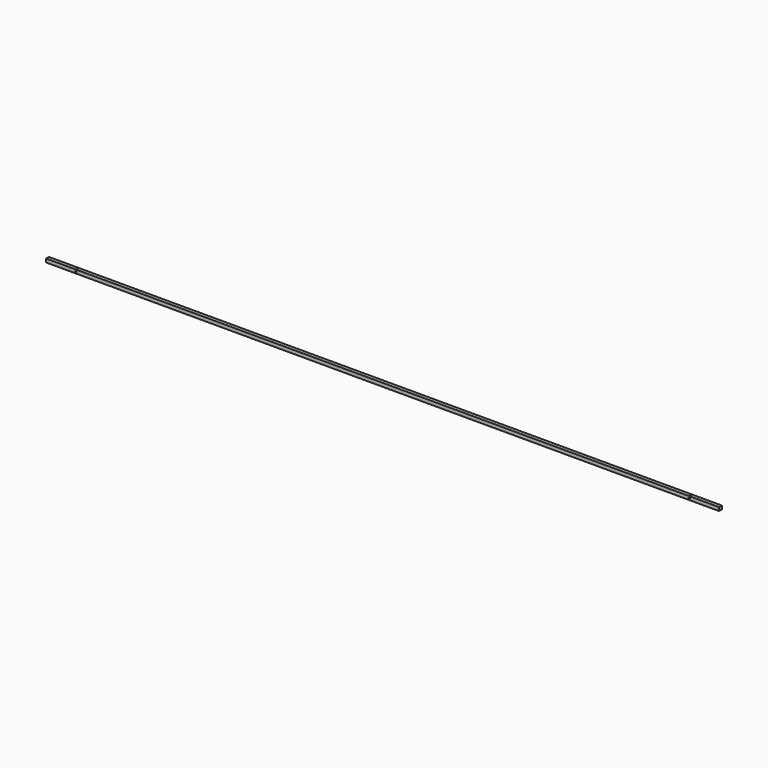
from build123d import *

# Parameters (mm, degrees)
F1_DEPTH = 3.175
F2_R     = 0.635
F3_DEPTH = 1.6002
F4_R     = 0.635
F5_DEPTH = 25.4


with BuildPart() as f1:
    # F0 (on Front) → F1 (new body)
    with BuildSketch(Plane.XZ):
        Polygon((-319.325916, 0), (-319.325916, -3.175), (-293.925916, -3.175), (264.874084, -3.175), (290.274084, -3.175), (290.274084, 0), align=None)
    extrude(amount=F1_DEPTH)

    # F2 (on Top) → F3 (cut)
    with BuildSketch(Plane.XY):
        with Locations((-292.338416, -1.5875)):
            Circle(F2_R)
        with Locations((263.286584, -1.5875)):
            Circle(F2_R)
    extrude(amount=-F3_DEPTH, mode=Mode.SUBTRACT)

    # F4 (on face) → F5 (cut)
    with BuildSketch(Plane.XZ.offset(3.175)):
        with Locations((-292.325716, -1.6002)):
            Circle(F4_R)
        with Locations((263.273884, -1.6002)):
            Circle(F4_R)
    extrude(amount=-F5_DEPTH, mode=Mode.SUBTRACT)


solid = f1.part
